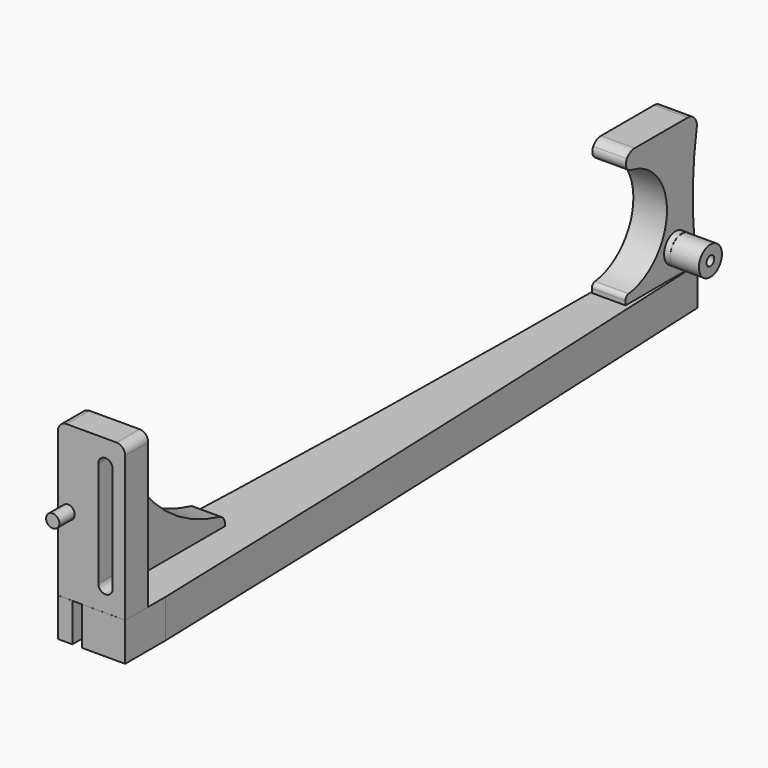
from build123d import *

# Parameters (mm, degrees)
PAD005_DEPTH            = 6
FILLET_R                = 2
FILLET001_R             = 2
BODY004_PLACEMENT_ANGLE = 180
PAD_DEPTH               = 8
SKETCH_W                = 4.72
SKETCH_H                = 153.5
PAD001_DEPTH            = 5
PAD003_DEPTH            = 8
SKETCH019_R             = 3
PAD006_DEPTH            = 7
PAD007_DEPTH            = 2
SKETCH012_R             = 1.375
PAD004_DEPTH            = 6
CUT_PLACEMENT_ANGLE     = 180
CYLINDER002_R           = 1.38
CYLINDER002_DEPTH       = 10
CYLINDER_R              = 3
CYLINDER_DEPTH          = 8
TUBE_R                  = 3
TUBE_R_2                = 1
TUBE_DEPTH              = 6


with BuildPart() as obj1:
    # Sketch013 → Pad005 (new body)
    with BuildSketch(Plane.YZ):
        with BuildLine():
            Line((6.011752, 0), (36.011752, 0))
            Line((36.011752, 0), (36.011752, -2))
            ThreePointArc((36.011752, -2), (17.671346, -11.659594), (8.011752, -30))
            Line((8.011752, -30), (6.011752, -30))
            Line((6.011752, -30), (6.011752, 0))
        make_face()
    extrude(amount=PAD005_DEPTH)

    # Fillet
    fillet_edges = [obj1.edges().sort_by_distance(p)[0] for p in [
        (3, 36.011752, -2),
    ]]
    fillet(fillet_edges, radius=FILLET_R)

    # Fillet001
    fillet001_edges = [obj1.edges().sort_by_distance(p)[0] for p in [
        (3, 8.011752, -30),
    ]]
    fillet(fillet001_edges, radius=FILLET001_R)


with BuildPart() as obj1_1:
    # Body004 placement: moved
    add(obj1.part.moved(Location((2, 0, 8))).rotate(Axis((2, 0, 8), (0, 1, 0)), BODY004_PLACEMENT_ANGLE))


with BuildPart() as rail:
    # Sketch003 → Pad (new body)
    with BuildSketch(Plane.XY):
        with BuildLine():
            Line((-1, 0), (-1, 153))
            ThreePointArc((-1, 153), (-1.472972, 154.593853), (-2.36, 156))
            Line((-2.36, 156), (-2.86, 156))
            ThreePointArc((-6, 10), (-3.658792, 82.983414), (-2.86, 156))
            Line((-6, 10), (-6, 2.5))
            Line((-4, 2.5), (-6, 2.5))
            Line((-4, 0), (-4, 2.5))
            Line((-4, 0), (-1, 0))
        make_face()
    extrude(amount=PAD_DEPTH)

    # Sketch → Pad001 (join)
    with BuildSketch(Plane.XY.offset(3)):
        with Locations((0, 79.25)):
            Rectangle(SKETCH_W, SKETCH_H)
    extrude(amount=PAD001_DEPTH)

    # Sketch011 → Pad003 (join)
    with BuildSketch(Plane.XY):
        with BuildLine():
            Line((1, 0), (10, 0))
            Line((10, 0), (10, 10.5))
            ThreePointArc((10, 10.5), (7.593861, 83.266042), (4.36, 156))
            Line((4.36, 156), (2.36, 156))
            ThreePointArc((2.36, 156), (1.472972, 154.593853), (1, 153))
            Line((1, 153), (1, 0))
        make_face()
    extrude(amount=PAD003_DEPTH)


with BuildPart() as finger:
    # Sketch019 → Pad006 (new body)
    with BuildSketch(Plane(origin=(0, 0, 0), x_dir=(0, -1, 0), z_dir=(-1, 0, 0))):
        with BuildLine():
            Line((-156.002761, 8.001026), (-137.422761, 8.001026))
            Line((-137.422761, 8.001026), (-137.422761, 8.887959))
            ThreePointArc((-137.422761, 8.887959), (-137.659123, 9.510979), (-138.249251, 9.820444))
            ThreePointArc((-138.882516, 32.241523), (-148.223001, 20.758226), (-138.249251, 9.820444))
            ThreePointArc((-138.882516, 32.241523), (-137.658784, 33.204866), (-137.777352, 34.757763))
            ThreePointArc((-137.777352, 34.757763), (-138.64735, 35.5738), (-139.802749, 35.870219))
            Line((-139.802749, 35.870219), (-153.602749, 35.870219))
            ThreePointArc((-153.602749, 35.870219), (-155.40581, 35.054191), (-155.982749, 33.161026))
            ThreePointArc((-156.002761, 8.001026), (-154.941037, 20.58019), (-155.982749, 33.161026))
        make_face()
        with Locations((-150.473295, 13.330111)):
            Circle(SKETCH019_R, mode=Mode.SUBTRACT)
    extrude(amount=PAD006_DEPTH)


with BuildPart() as finger_1:
    # Body007 placement: moved
    add(finger.part.moved(Location((4.278, -0.01, -0.012))))


with BuildPart() as slotscrew:
    # Sketch020 → Pad007 (new body)
    with BuildSketch(Plane.XZ):
        with BuildLine():
            ThreePointArc((8.9, 35), (5.9, 38), (2.9, 35))
            Line((2.9, 35), (2.9, 13))
            ThreePointArc((2.9, 13), (5.9, 10), (8.9, 13))
            Line((8.9, 13), (8.9, 35))
        make_face()
    extrude(amount=PAD007_DEPTH)


with BuildPart() as slotscrew_1:
    # Body009 placement: moved
    add(slotscrew.part.moved(Location((-0.013, -4.05, -39.977))))


with BuildPart() as base:
    # Sketch012 → Pad004 (new body)
    with BuildSketch(Plane.XZ):
        with BuildLine():
            Line((-4, 0), (10, 0))
            Line((10, 0), (10, -30.2))
            ThreePointArc((8.2, -32), (9.472792, -31.472792), (10, -30.2))
            Line((8.2, -32), (-2.2, -32))
            ThreePointArc((-4, -30.2), (-3.472792, -31.472792), (-2.2, -32))
            Line((-4, -30.2), (-4, 0))
        make_face()
        with Locations((-1.9, -15.9)):
            Circle(SKETCH012_R, mode=Mode.SUBTRACT)
        with BuildLine():
            ThreePointArc((4.4, -26.9), (5.9, -28.4), (7.4, -26.9))
            Line((7.4, -26.9), (7.4, -4.9))
            ThreePointArc((7.4, -4.9), (5.9, -3.4), (4.4, -4.9))
            Line((4.4, -4.9), (4.4, -26.9))
        make_face(mode=Mode.SUBTRACT)
    extrude(amount=PAD004_DEPTH)

    # Cut: cut slotscrew
    add(slotscrew_1.part, mode=Mode.SUBTRACT)


with BuildPart() as base_1:
    # Cut placement: moved
    add(base.part.moved(Location((0, 0.008, 7.997))).rotate(Axis((0, 0.008, 7.997), (1, 0, 0)), CUT_PLACEMENT_ANGLE))


with BuildPart() as cylinder002:
    # Cylinder002 → Cylinder002 (new body)
    with BuildSketch(Plane(origin=(-1.897, 6.015, 23.971), x_dir=(0, 0, 1), z_dir=(0, -1, 0))):
        Circle(CYLINDER002_R)
    extrude(amount=CYLINDER002_DEPTH)


with BuildPart() as cylinder:
    # Cylinder → Cylinder (new body)
    with BuildSketch(Plane(origin=(28.57, 150.463, 13.35), x_dir=(0, 0, 1), z_dir=(-1, 0, 0))):
        Circle(CYLINDER_R)
    extrude(amount=CYLINDER_DEPTH)


with BuildPart() as fusion:
    # Tube → Tube (new body)
    with BuildSketch(Plane(origin=(34.552, 150.466, 13.322), x_dir=(0, 1, 0), z_dir=(-1, 0, 0))):
        Circle(TUBE_R)
        Circle(TUBE_R_2, mode=Mode.SUBTRACT)
    extrude(amount=TUBE_DEPTH)

    # Fusion: union Cylinder
    add(cylinder.part)


with BuildPart() as fusion_1:
    # Fusion placement: moved
    add(fusion.part.moved(Location((-23.031, 0, -0.09))))


solid = Compound([obj1_1.part, rail.part, finger_1.part, base_1.part, cylinder002.part, fusion_1.part])
